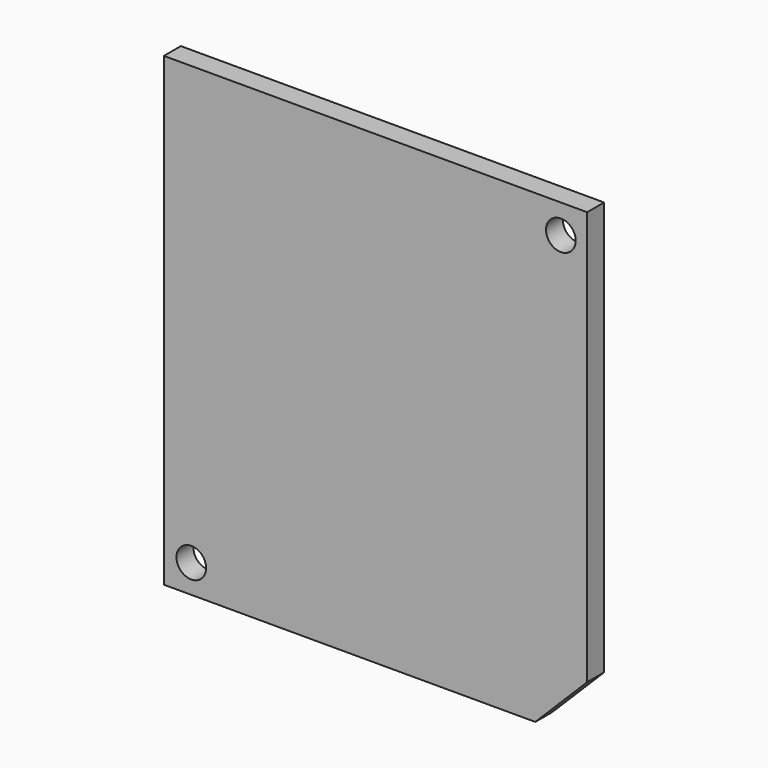
from build123d import *

# Parameters (mm, degrees)
F0_R     = 1.05
F1_DEPTH = 1.5


with BuildPart() as f1:
    # F0 (on Front) → F1 (new body)
    with BuildSketch(Plane.XZ):
        Polygon((13.033743, -10.610216), (13.033743, 18.713196), (-16.966257, 18.713196), (-16.966257, -14.286804), (9.357155, -14.286804), align=None)
        with Locations((-15.025558, -12.278115)):
            Circle(F0_R, mode=Mode.SUBTRACT)
        with Locations((11.168605, 16.665677)):
            Circle(F0_R, mode=Mode.SUBTRACT)
    extrude(amount=-F1_DEPTH)


solid = f1.part
